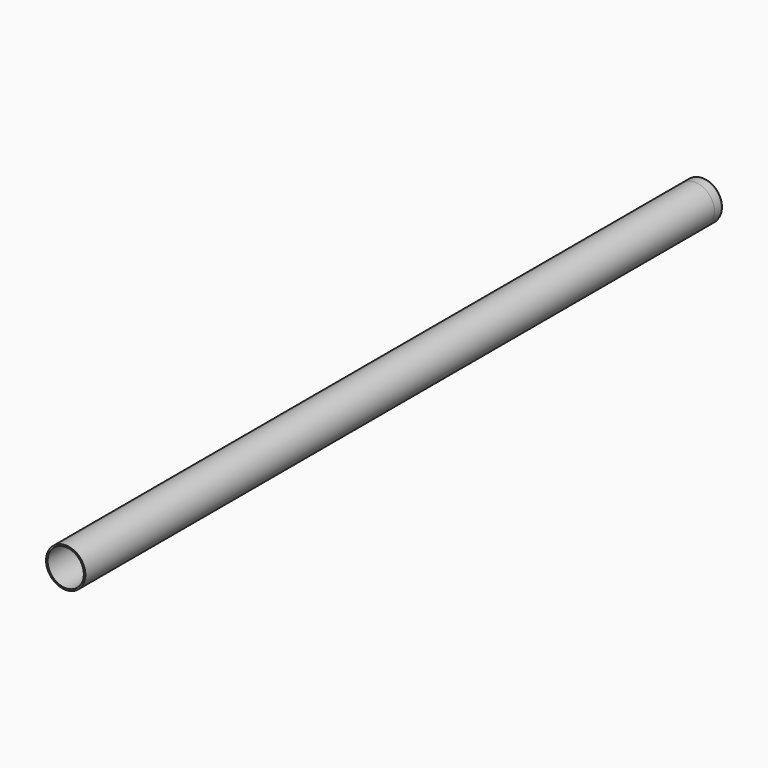
from build123d import *

# Parameters (mm, degrees)
F0_R     = 45
F0_R_2   = 41.5
F1_DEPTH = 1800
F2_R     = 45
F2_R_2   = 42
F2_R_3   = 6.35
F3_DEPTH = 25
F4_DEPTH = 22
F5_R     = 6
F6_DEPTH = 26


with BuildPart() as f1:
    # F0 (on Front) → F1 (new body)
    with BuildSketch(Plane.XZ):
        Circle(F0_R)
        Circle(F0_R_2, mode=Mode.SUBTRACT)
    extrude(amount=F1_DEPTH)

    # F2 (on Front) → F6 (cut)
    with BuildSketch(Plane.XZ):
        Circle(F2_R_3)
    extrude(amount=-F6_DEPTH, mode=Mode.SUBTRACT)


with BuildPart() as f3:
    # F2 (on Front) → F3 (new body)
    with BuildSketch(Plane.XZ):
        Circle(F2_R)
        Circle(F2_R_2, mode=Mode.SUBTRACT)
        Circle(F2_R_2)
        Circle(F2_R_3, mode=Mode.SUBTRACT)
    extrude(amount=-F3_DEPTH)

    # F2 (on Front) → F4 (cut)
    with BuildSketch(Plane.XZ):
        Circle(F2_R_2)
        Circle(F2_R_3, mode=Mode.SUBTRACT)
    extrude(amount=-F4_DEPTH, mode=Mode.SUBTRACT)

    # F5
    f5_edges = [f3.edges().sort_by_distance(p)[0] for p in [
        (-45, 25, 0),
    ]]
    fillet(f5_edges, radius=F5_R)


solid = Compound([f1.part, f3.part])
